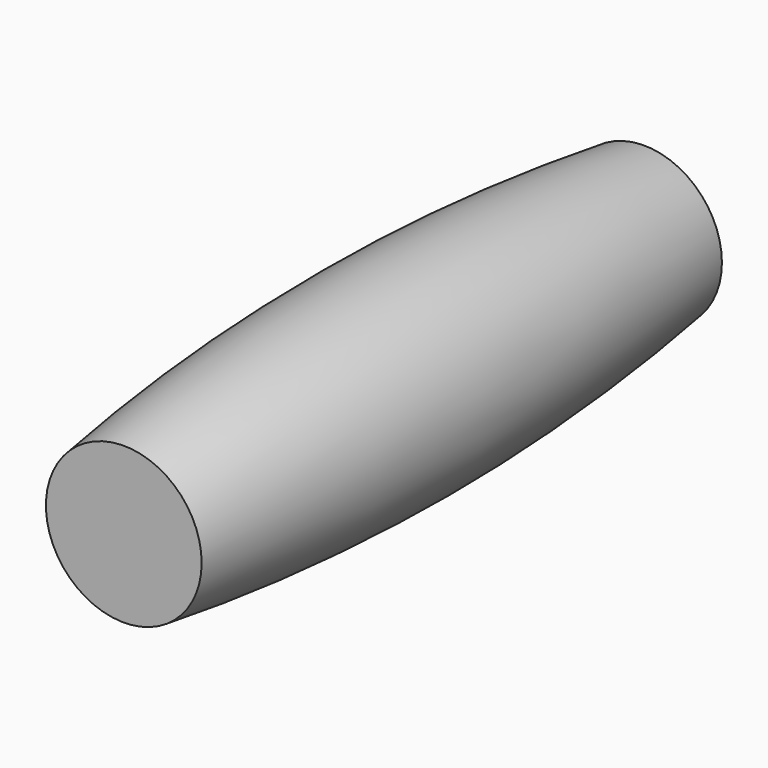
from build123d import *


with BuildPart() as f1:
    # F0 (on Top) → F1 (revolve)
    with BuildSketch(Plane.XY):
        with BuildLine():
            Line((10.795, 0), (0, 0))
            Line((0, 0), (0, -90.17))
            Line((0, -90.17), (10.795, -90.17))
            ThreePointArc((10.795, -90.17), (13.97, -45.085), (10.795, 0))
        make_face()
    revolve(axis=Axis((0, -45.085, 0), (0, -1, 0)))


solid = f1.part
